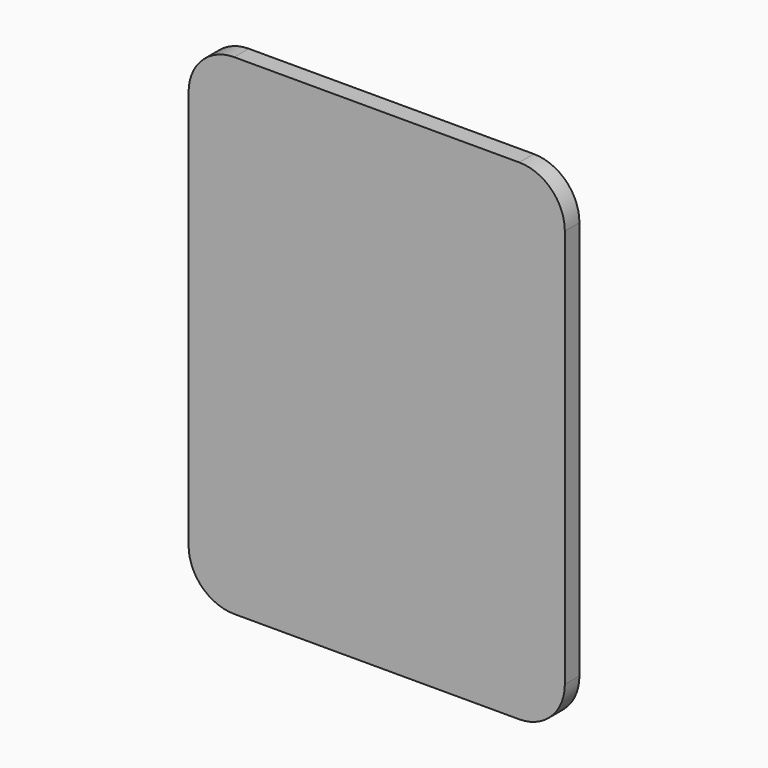
from build123d import *

# Parameters (mm, degrees)
PAD_DEPTH = 1.6


with BuildPart() as part:
    # Sketch → Pad (new body)
    with BuildSketch(Plane.XZ):
        with BuildLine():
            Line((-12.5, 21.5), (12.5, 21.5))
            ThreePointArc((16.5, 17.5), (15.328427, 20.328427), (12.5, 21.5))
            Line((16.5, 17.5), (16.5, -17.5))
            ThreePointArc((12.5, -21.5), (15.328427, -20.328427), (16.5, -17.5))
            Line((12.5, -21.5), (-12.5, -21.5))
            ThreePointArc((-16.5, -17.5), (-15.328427, -20.328427), (-12.5, -21.5))
            Line((-16.5, -17.5), (-16.5, 17.5))
            ThreePointArc((-12.5, 21.5), (-15.328427, 20.328427), (-16.5, 17.5))
        make_face()
    extrude(amount=PAD_DEPTH)


solid = part.part
